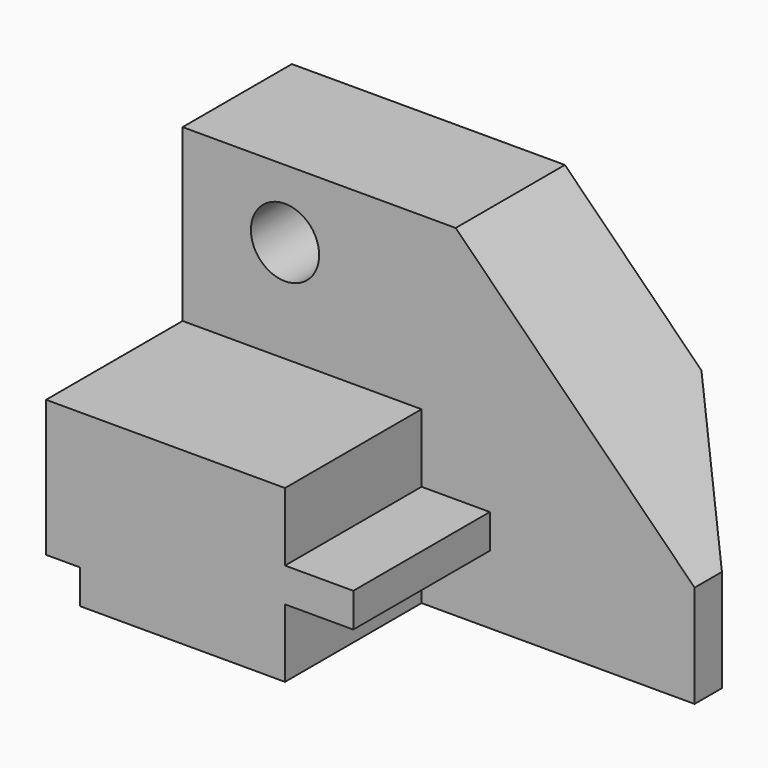
from build123d import *

# Parameters (mm, degrees)
F0_W      = 107.95
F0_H      = 63.5
F1_DEPTH  = 57.15
F2_W      = 44.45
F2_H      = 31.75
F3_DEPTH  = 31.75
F4_W      = 63.5
F4_H      = 31.75
F5_DEPTH  = 44.45
F6_W      = 6.35
F6_H      = 6.35
F7_DEPTH  = 57.151
F9_DEPTH  = 31.75
F10_W     = 12.7
F10_H     = 63.5
F11_DEPTH = 25.4
F13_DEPTH = 25.401
F14_R     = 6.35
F15_DEPTH = 25.401
F17_DEPTH = 63.501


with BuildPart() as f1:
    # F0 (on Front) → F1 (new body)
    with BuildSketch(Plane.XZ):
        with Locations((53.975, 31.75)):
            Rectangle(F0_W, F0_H)
    extrude(amount=-F1_DEPTH)

    # F2 (on face) → F3 (cut)
    with BuildSketch(Plane.XY.offset(63.5)):
        with Locations((22.225, 15.875)):
            Rectangle(F2_W, F2_H)
    extrude(amount=-F3_DEPTH, mode=Mode.SUBTRACT)

    # F4 (on face) → F5 (cut)
    with BuildSketch(Plane.XY.offset(63.5)):
        with Locations((76.2, 15.875)):
            Rectangle(F4_W, F4_H)
    extrude(amount=-F5_DEPTH, mode=Mode.SUBTRACT)

    # F6 (on Front) → F7 (cut, through all)
    with BuildSketch(Plane.XZ):
        with Locations((3.175, 3.175)):
            Rectangle(F6_W, F6_H)
    extrude(amount=-F7_DEPTH, mode=Mode.SUBTRACT)

    # F8 (on face) → F9 (cut)
    with BuildSketch(Plane.XZ):
        Polygon((44.45, 12.7), (44.45, 0), (107.95, 0), (107.95, 19.05), (57.15, 19.05), (57.15, 12.7), align=None)
    extrude(amount=-F9_DEPTH, mode=Mode.SUBTRACT)

    # F10 (on face) → F11 (cut)
    with BuildSketch(Plane.XZ.offset(-31.75)):
        with Locations((101.6, 31.75)):
            Rectangle(F10_W, F10_H)
    extrude(amount=-F11_DEPTH, mode=Mode.SUBTRACT)

    # F12 (on face) → F13 (cut, through all)
    with BuildSketch(Plane.XZ.offset(-31.75)):
        Polygon((95.25, 63.5), (50.8, 63.5), (95.25, 19.05), align=None)
    extrude(amount=-F13_DEPTH, mode=Mode.SUBTRACT)

    # F14 (on face) → F15 (cut, through all)
    with BuildSketch(Plane.XZ.offset(-31.75)):
        with Locations((19.05, 50.8)):
            Circle(F14_R)
    extrude(amount=-F15_DEPTH, mode=Mode.SUBTRACT)

    # F16 (on Top) → F17 (cut, through all)
    with BuildSketch(Plane.XY):
        Polygon((95.25, 38.1), (95.25, 57.15), (76.2, 57.15), align=None)
    extrude(amount=F17_DEPTH, mode=Mode.SUBTRACT)


solid = f1.part
